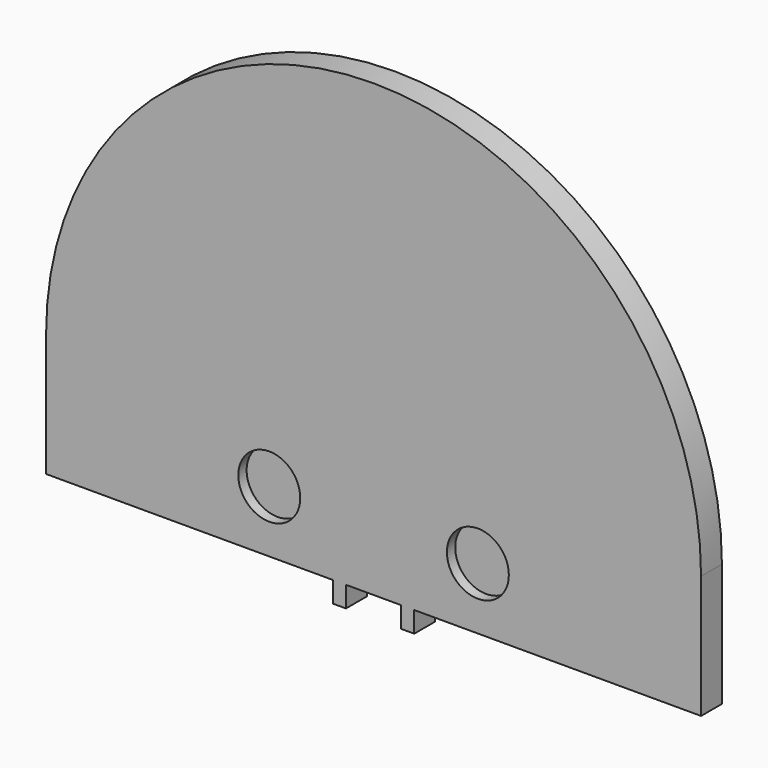
from build123d import *

# Parameters (mm, degrees)
F1_DEPTH = 3.175
F2_R     = 3.7719
F3_DEPTH = 1.27
F4_W     = 1.5875
F4_H     = 2.54
F5_DEPTH = 3.175


with BuildPart() as f1:
    # F0 (on Front) → F1 (new body)
    with BuildSketch(Plane.XZ):
        with BuildLine():
            ThreePointArc((39.878, 0), (0, 39.878), (-39.878, 0))
            Line((-39.878, 0), (-39.878, -14.986))
            Line((-39.878, -14.986), (39.878, -14.986))
            Line((39.878, -14.986), (39.878, 0))
        make_face()
    extrude(amount=F1_DEPTH)

    # F2 (on face) → F3 (cut)
    with BuildSketch(Plane.XZ.offset(3.175)):
        with Locations((-12.7, -7.493)):
            Circle(F2_R)
        with Locations((12.7, -7.493)):
            Circle(F2_R)
    extrude(amount=-F3_DEPTH, mode=Mode.SUBTRACT)

    # F4 (on face) → F5 (join)
    with BuildSketch(Plane.XZ.offset(3.175)):
        with Locations((-4.15925, -16.256)):
            Rectangle(F4_W, F4_H)
        with Locations((4.15925, -16.256)):
            Rectangle(F4_W, F4_H)
    extrude(amount=-F5_DEPTH)


solid = f1.part
